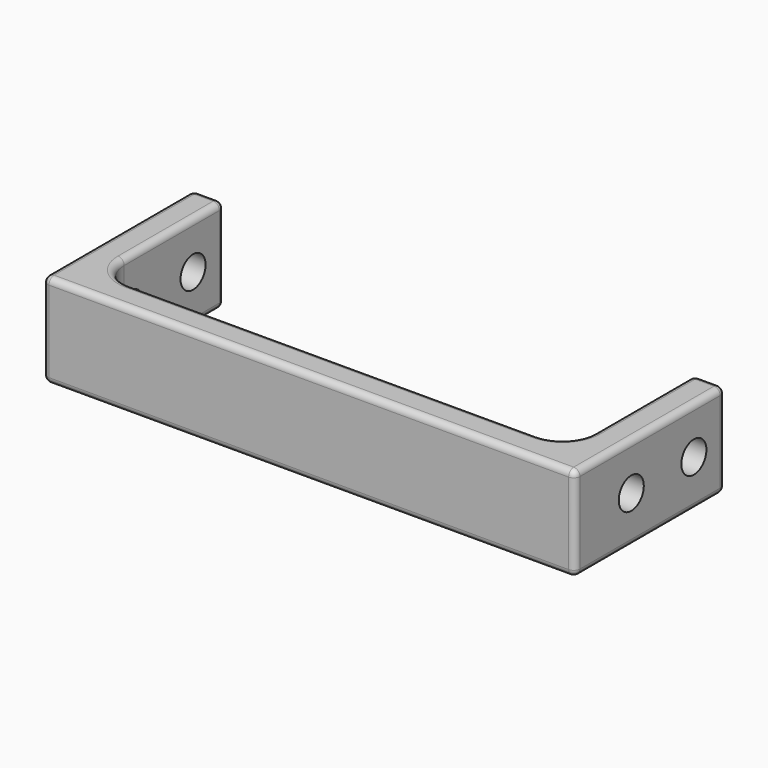
from build123d import *

# Parameters (mm, degrees)
PAD_DEPTH         = 15
SKETCH001_R       = 2.5
POCKET_DEPTH      = 0.001
POCKET_DEPTH_BACK = -85.001
FILLET_R          = 1


with BuildPart() as part:
    # Sketch → Pad (new body)
    with BuildSketch(Plane.XY):
        with BuildLine():
            Line((85, 30), (85, 0))
            Line((85, 0), (0, 0))
            Line((0, 0), (0, 30))
            Line((0, 30), (5, 30))
            Line((5, 30), (5, 10))
            ThreePointArc((5, 10), (6.464466, 6.464466), (10, 5))
            Line((10, 5), (75, 5))
            ThreePointArc((75, 5), (78.535534, 6.464466), (80, 10))
            Line((80, 10), (80, 30))
            Line((80, 30), (85, 30))
        make_face()
    extrude(amount=PAD_DEPTH)

    # Sketch001 → Pocket (cut, two sides)
    with BuildSketch(Plane.YZ) as pocket_sk:
        with Locations((11.25, 7.5)):
            Circle(SKETCH001_R)
        with Locations((23.75, 7.5)):
            Circle(SKETCH001_R)
    extrude(amount=-POCKET_DEPTH, mode=Mode.SUBTRACT)
    extrude(pocket_sk.sketch, amount=-POCKET_DEPTH_BACK, mode=Mode.SUBTRACT)

    # Fillet
    fillet_edges = [part.edges().sort_by_distance(p)[0] for p in [
        (85, 30, 7.5),
        (80, 30, 7.5),
        (82.5, 30, 0),
        (82.5, 30, 15),
        (85, 0, 7.5),
        (5, 30, 7.5),
        (0, 30, 7.5),
        (0, 0, 7.5),
        (42.5, 0, 15),
        (42.5, 0, 0),
        (85, 15, 15),
        (0, 15, 15),
        (2.5, 30, 15),
        (5, 20, 15),
        (6.464466, 6.464466, 15),
        (42.5, 5, 15),
        (78.535534, 6.464466, 15),
        (80, 20, 15),
        (85, 15, 0),
        (0, 15, 0),
        (2.5, 30, 0),
        (5, 20, 0),
        (6.464466, 6.464466, 0),
        (42.5, 5, 0),
        (78.535534, 6.464466, 0),
        (80, 20, 0),
    ]]
    fillet(fillet_edges, radius=FILLET_R)


solid = part.part
